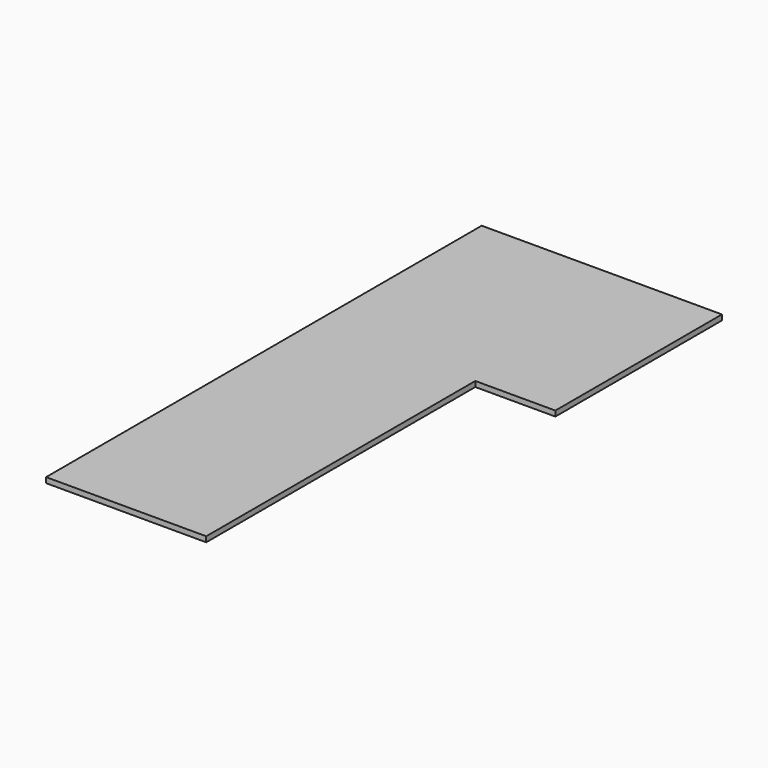
from build123d import *

# Parameters (mm, degrees)
F0_W     = 1524
F0_H     = 3962.4
F1_DEPTH = 101.6


with BuildPart() as f1:
    # F0 (on Top) → F1 (new body)
    with BuildSketch(Plane.XY):
        Polygon((-2102.649039, 5176.797572), (-2102.649039, -5186.402428), (945.350961, -5186.402428), (945.350961, 1214.397572), (945.350961, 5176.797572), align=None)
        with Locations((1707.350961, 3195.597572)):
            Rectangle(F0_W, F0_H)
    extrude(amount=-F1_DEPTH)


solid = f1.part
